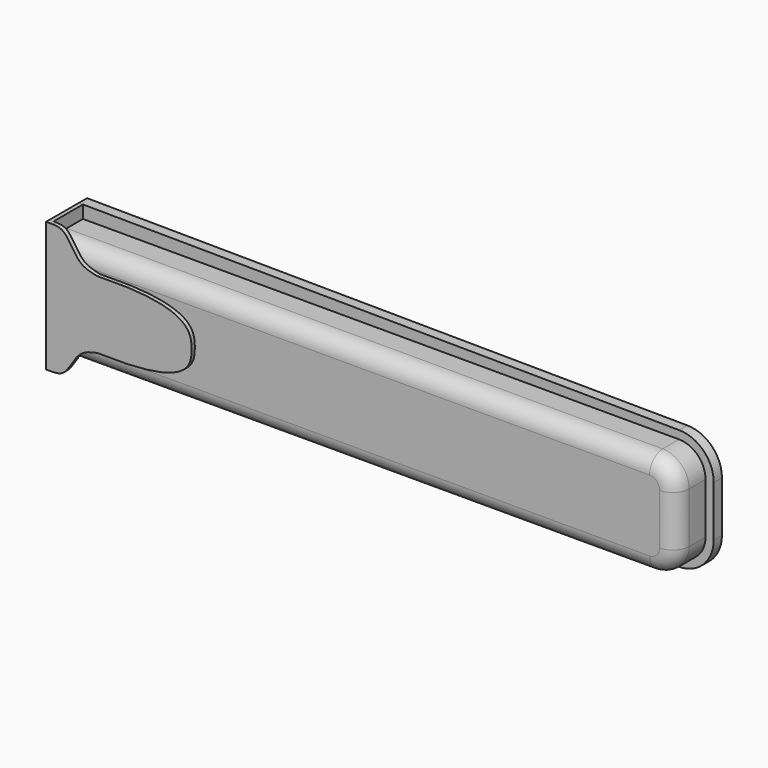
from build123d import *

# Parameters (mm, degrees)
F1_DEPTH  = 5
F3_DEPTH  = 18
F4_R      = 8
F6_DEPTH  = 20
F8_DEPTH  = 69
F10_DEPTH = 2


with BuildPart() as f1:
    # F0 (on Front) → F1 (new body)
    with BuildSketch(Plane.XZ):
        with BuildLine():
            Line((-136.909834867, 61), (-136.909834867, -2.5))
            Line((-136.909834867, -2.5), (156.2171810981, -0.1359955775))
            ThreePointArc((156.2171810981, -0.1359955775), (168.1492733016, 4.8912054731), (173.0800843239, 16.863451604))
            Line((173.0800843239, 16.863451604), (173.0800843239, 41.636548396))
            ThreePointArc((173.0800843239, 41.636548396), (168.1492733016, 53.6087945269), (156.2171810981, 58.6359955775))
            Line((156.2171810981, 58.6359955775), (-136.909834867, 61))
        make_face()
    extrude(amount=F1_DEPTH)

    # F2 (on face) → F3 (join)
    with BuildSketch(Plane.XZ.offset(5)):
        with BuildLine():
            Line((169.0800786018, 16.863451604), (169.0800786018, 41.636548396))
            ThreePointArc((169.0800786018, 41.636548396), (165.309460068, 50.7917914076), (156.1849229874, 54.6361199305))
            Line((156.1849229874, 54.6361199305), (-134.909838438, 54.75))
            Line((-134.909838438, 54.75), (-134.909838438, 3.75))
            Line((-134.909838438, 3.75), (156.1849229874, 3.8638800695))
            ThreePointArc((156.1849229874, 3.8638800695), (165.309460068, 7.7082085924), (169.0800786018, 16.863451604))
        make_face()
    extrude(amount=F3_DEPTH)

    # F4
    f4_edges = [f1.edges().sort_by_distance(p)[0] for p in [
        (10.637542, -23, 54.69306),
        (165.30946, -23, 50.791791),
        (169.080079, -23, 29.25),
        (165.30946, -23, 7.708209),
        (10.637542, -23, 3.80694),
    ]]
    fillet(f4_edges, radius=F4_R)

    # F5 (on face) → F6 (join)
    with BuildSketch(Plane.XZ.offset(5)):
        Polygon((-134.909838438, 3.75), (-134.909838438, 54.75), (-134.909838438, 60.983870472), (-136.909834867, 61), (-136.909834867, -2.5), (-134.909838438, -2.483870472), align=None)
    extrude(amount=F6_DEPTH)

    # F7 (on face) → F8 (join)
    with BuildSketch(Plane.YZ.offset(-134.909838438)):
        Polygon((-25, 60.983870472), (-25, -2.483870472), (-23, -2.483870472), (-23, 11.7500006122), (-23, 46.7499993878), (-23, 60.983870472), align=None)
    extrude(amount=F8_DEPTH)

    # F9 (on face) → F10 (cut)
    with BuildSketch(Plane.XZ.offset(25)):
        with BuildLine():
            Line((-65.909838438, -2.483870472), (-65.909838438, 29.25))
            add(Edge.make_bspline(
                [(-97.409834867, 12.75), (-65.909838438, 13.8700312972), (-65.9114625472, 23.4057943523), (-65.909838438, 29.25)],
                knots=[0, 0, 0, 0, 35.5598056101, 35.5598056101, 35.5598056101, 35.5598056101], degree=3))
            Line((-97.409834867, 12.75), (-111.909834867, 12.75))
            add(Edge.make_bspline(
                [(-133.7268669105, -2.483870472), (-131.7941304161, -2.4585653704), (-126.820763516, -1.9012974431), (-121.7865199651, 10.7168586647), (-115.048285193, 12.1039418314), (-111.909834867, 12.75)],
                knots=[0.04781603, 0.04781603, 0.04781603, 0.04781603, 0.2828665478, 0.6659825914, 1, 1, 1, 1], degree=3))
            Line((-133.7268669105, -2.483870472), (-65.909838438, -2.483870472))
        make_face()
        with BuildLine():
            Line((-65.909838438, 60.983870472), (-133.7268669105, 60.983870472))
            add(Edge.make_bspline(
                [(-133.7268669105, 60.983870472), (-131.7941304161, 60.9585653704), (-126.820763516, 60.4012974431), (-121.7865199651, 47.7831413353), (-115.048285193, 46.3960581686), (-111.909834867, 45.75)],
                knots=[0.04781603, 0.04781603, 0.04781603, 0.04781603, 0.2828665478, 0.6659825914, 1, 1, 1, 1], degree=3))
            Line((-111.909834867, 45.75), (-97.409834867, 45.75))
            add(Edge.make_bspline(
                [(-97.409834867, 45.75), (-65.909838438, 44.6299687028), (-65.9114625472, 35.0942056477), (-65.909838438, 29.25)],
                knots=[0, 0, 0, 0, 35.5598056101, 35.5598056101, 35.5598056101, 35.5598056101], degree=3))
            Line((-65.909838438, 29.25), (-65.909838438, 60.983870472))
        make_face()
    extrude(amount=-F10_DEPTH, mode=Mode.SUBTRACT)


solid = f1.part
